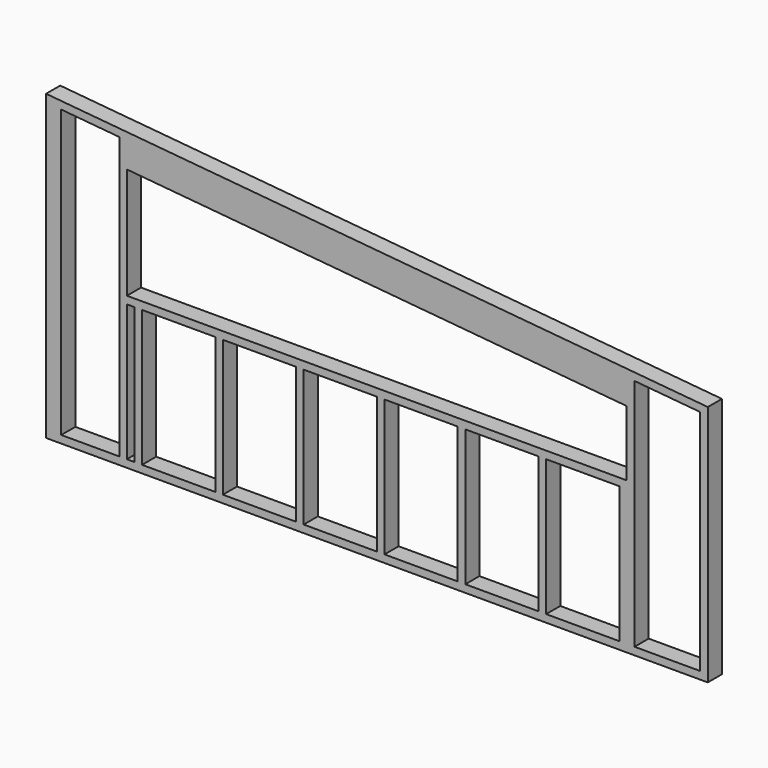
from build123d import *

# Parameters (mm, degrees)
F0_W      = 3327.4
F0_H      = 88.9
F1_DEPTH  = 38.1
F2_W      = 38.1
F2_H      = 88.9
F3_DEPTH  = 1524
F5_DEPTH  = 431.8
F7_DEPTH  = 88.9
F8_W      = 2514.6
F8_H      = 38.1
F9_DEPTH  = 88.9
F11_DEPTH = 330.2


with BuildPart() as f1:
    # F0 (on Top) → F1 (new body)
    with BuildSketch(Plane.XY):
        Rectangle(F0_W, F0_H)
    extrude(amount=F1_DEPTH)

    # F2 (on face) → F3 (join)
    with BuildSketch(Plane.XY.offset(38.1)):
        with Locations((1644.65, 0)):
            Rectangle(F2_W, F2_H)
        with Locations((1238.25, 0)):
            Rectangle(F2_W, F2_H)
        with Locations((831.85, 0)):
            Rectangle(F2_W, F2_H)
        with Locations((425.45, 0)):
            Rectangle(F2_W, F2_H)
        with Locations((19.05, 0)):
            Rectangle(F2_W, F2_H)
        with Locations((-387.35, 0)):
            Rectangle(F2_W, F2_H)
        with Locations((-793.75, 0)):
            Rectangle(F2_W, F2_H)
        with Locations((-1200.15, 0)):
            Rectangle(F2_W, F2_H)
        with Locations((-1644.65, 0)):
            Rectangle(F2_W, F2_H)
        with Locations((-1606.55, 0)):
            Rectangle(F2_W, F2_H)
    extrude(amount=F3_DEPTH)

    # F4 (on face) → F5 (cut)
    with BuildSketch(Plane.XZ.offset(44.45)):
        Polygon((-1823.165178, 1997.775987), (-1663.7, 1485.9), (1663.7, 1181.1), (1733.675979, 1945.004437), align=None)
    extrude(amount=-F5_DEPTH, mode=Mode.SUBTRACT)

    # F6 (on face) → F7 (join)
    with BuildSketch(Plane.XZ.offset(44.45)):
        Polygon((-1663.7, 1524), (-1663.7, 1485.9), (1663.7, 1181.1), (1663.7, 1219.2), align=None)
    extrude(amount=-F7_DEPTH)

    # F8 (on face) → F9 (join)
    with BuildSketch(Plane.XZ.offset(44.45)):
        Polygon((-1257.3, 723.9), (-1257.3, 762), (-1257.3, 1321.140796), (-1257.3, 1452.162595), (-1295.4, 1452.162595), (-1295.4, 38.1), (-1257.3, 38.1), align=None)
        with Locations((0, 742.95)):
            Rectangle(F8_W, F8_H)
        Polygon((1257.3, 1090.795758), (1257.3, 762), (1257.3, 723.9), (1257.3, 38.1), (1295.4, 38.1), (1295.4, 1218.327481), (1257.3, 1218.327481), align=None)
        Polygon((-1257.3, 1452.162595), (-1257.3, 1321.140796), (1257.3, 1090.795758), (1257.3, 1218.327481), align=None)
    extrude(amount=-F9_DEPTH)

    # F10 (on face) → F11 (cut)
    with BuildSketch(Plane.XZ.offset(44.45)):
        Polygon((-1257.3, 1321.140796), (-1257.3, 762), (1254.120588, 762), (1254.120588, 1091.087002), align=None)
    extrude(amount=-F11_DEPTH, mode=Mode.SUBTRACT)


solid = f1.part
